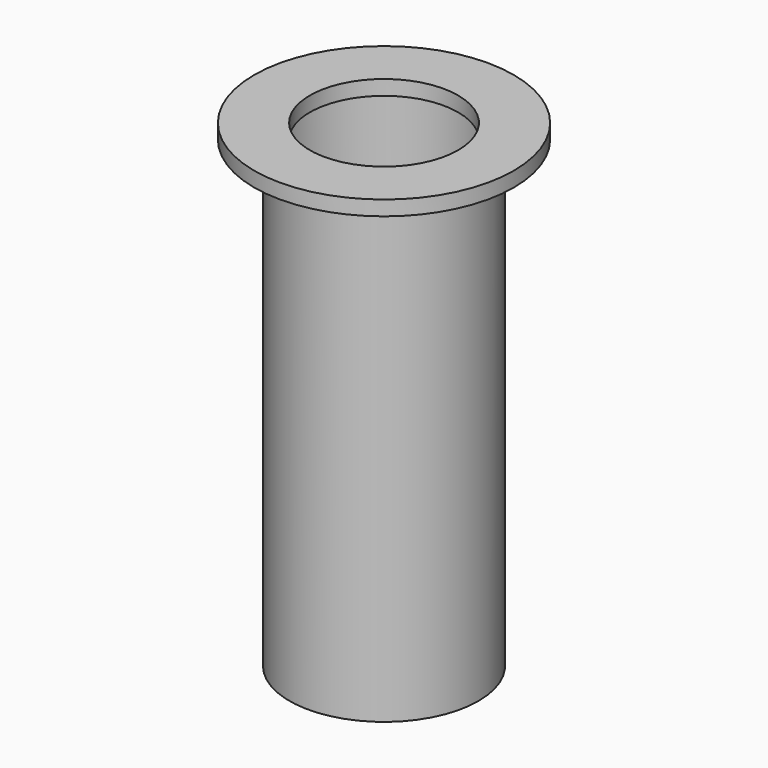
from build123d import *

# Parameters (mm, degrees)
F0_R     = 510
F0_R_2   = 490
F1_DEPTH = 2500
F0_R_3   = 700
F0_R_4   = 400
F2_DEPTH = 80


with BuildPart() as f1:
    # F0 (on Top) → F1 (new body)
    with BuildSketch(Plane.XY):
        Circle(F0_R)
        Circle(F0_R_2, mode=Mode.SUBTRACT)
    extrude(amount=-F1_DEPTH)


with BuildPart() as f2:
    # F0 (on Top) → F2 (new body)
    with BuildSketch(Plane.XY):
        Circle(F0_R_3)
        Circle(F0_R, mode=Mode.SUBTRACT)
        Circle(F0_R)
        Circle(F0_R_2, mode=Mode.SUBTRACT)
        Circle(F0_R_2)
        Circle(F0_R_4, mode=Mode.SUBTRACT)
    extrude(amount=F2_DEPTH)


solid = Compound([f1.part, f2.part])
